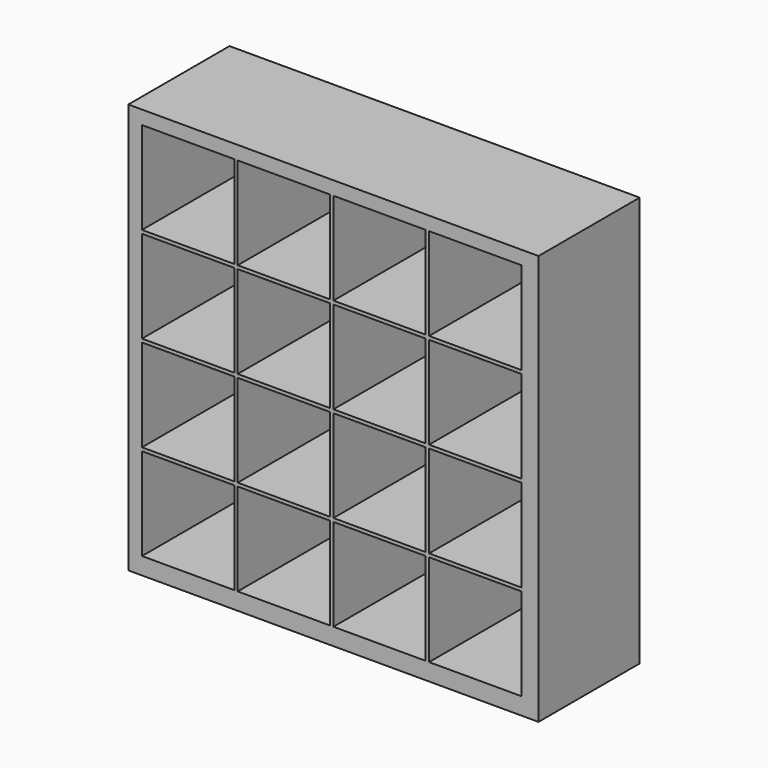
from build123d import *

# Parameters (mm, degrees)
F0_W     = 1200
F0_H     = 370
F1_DEPTH = 1200
F2_W     = 270
F2_H     = 270
F3_DEPTH = 370.001


with BuildPart() as f1:
    # F0 (on Top) → F1 (new body)
    with BuildSketch(Plane.XY):
        with Locations((536.95002, 123.801892)):
            Rectangle(F0_W, F0_H)
    extrude(amount=F1_DEPTH)

    # F2 (on face) → F3 (cut, through all)
    with BuildSketch(Plane.XZ.offset(61.198108)):
        with Locations((111.95002, 1025)):
            Rectangle(F2_W, F2_H)
        with Locations((391.95002, 1025)):
            Rectangle(F2_W, F2_H)
        with Locations((671.95002, 1025)):
            Rectangle(F2_W, F2_H)
        with Locations((951.95002, 1025)):
            Rectangle(F2_W, F2_H)
        with Locations((951.95002, 745)):
            Rectangle(F2_W, F2_H)
        with Locations((671.95002, 745)):
            Rectangle(F2_W, F2_H)
        with Locations((391.95002, 745)):
            Rectangle(F2_W, F2_H)
        with Locations((111.95002, 745)):
            Rectangle(F2_W, F2_H)
        with Locations((111.95002, 465)):
            Rectangle(F2_W, F2_H)
        with Locations((391.95002, 465)):
            Rectangle(F2_W, F2_H)
        with Locations((671.95002, 465)):
            Rectangle(F2_W, F2_H)
        with Locations((951.95002, 465)):
            Rectangle(F2_W, F2_H)
        with Locations((951.95002, 185)):
            Rectangle(F2_W, F2_H)
        with Locations((671.95002, 185)):
            Rectangle(F2_W, F2_H)
        with Locations((391.95002, 185)):
            Rectangle(F2_W, F2_H)
        with Locations((111.95002, 185)):
            Rectangle(F2_W, F2_H)
    extrude(amount=-F3_DEPTH, mode=Mode.SUBTRACT)


solid = f1.part
